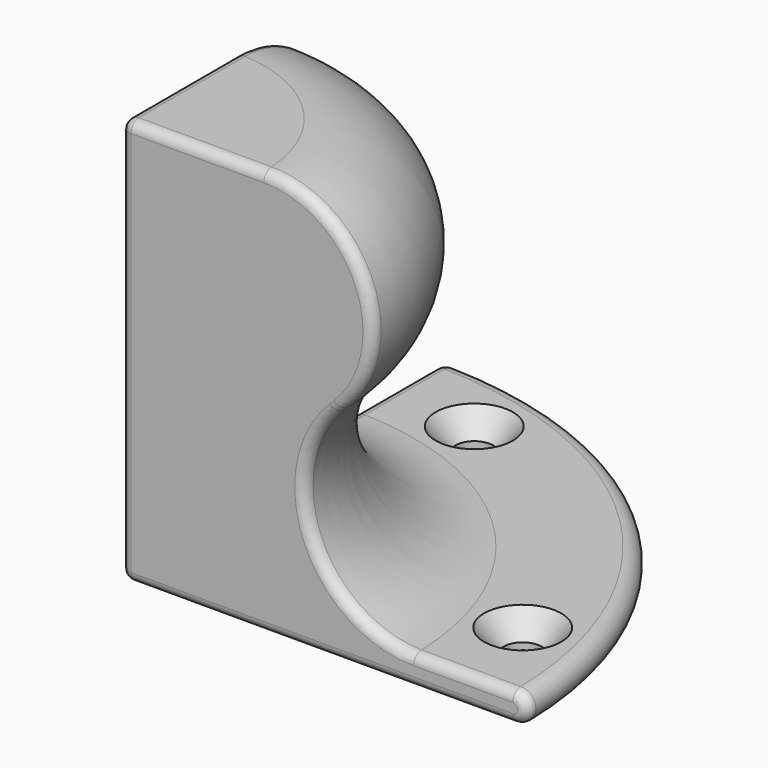
from build123d import *

# Parameters (mm, degrees)
F1_ANGLE       = 90
F3_D           = 3.7973
F3_CSINK_D     = 7.7978
F3_CSINK_ANGLE = 82
F4_R           = 1


with BuildPart() as f1:
    # F0 (on Front) → F1 (revolve)
    with BuildSketch(Plane.XZ):
        with BuildLine():
            ThreePointArc((29.5563491861, 3), (19.3936743285, 9.790482244), (21.7781745931, 21.7781745931))
            Line((21.7781745931, 21.7781745931), (22.2218254069, 22.2218254069))
            ThreePointArc((22.2218254069, 22.2218254069), (24.6063256715, 34.209517756), (14.4436508139, 41))
            Line((14.4436508139, 41), (0, 41))
            Line((0, 41), (0, 0))
            Line((0, 0), (39.5563491861, 0))
            ThreePointArc((39.5563491861, 0), (41.0563491861, 1.5), (39.5563491861, 3))
            Line((39.5563491861, 3), (29.5563491861, 3))
        make_face()
    revolve(axis=Axis((0, 0, 20.5), (0, 0, 1)), revolution_arc=F1_ANGLE)

    # F3 (through all)
    with Locations(Plane.XY.offset(3)):
        with Locations((8.9438412986, 33.3788701411), (33.3788701411, 8.9438412986)):
            CounterSinkHole(F3_D / 2, F3_CSINK_D / 2, counter_sink_angle=F3_CSINK_ANGLE)

    # F4
    f4_edges = [f1.edges().sort_by_distance(p)[0] for p in [
        (19.393674, 0, 9.790482),
        (22, 0, 22),
        (24.606326, 0, 34.209518),
        (7.221825, 0, 41),
        (0, 0, 20.5),
        (19.778175, 0, 0),
        (41.056349, 0, 1.5),
        (34.556349, 0, 3),
        (0, 19.393674, 9.790482),
        (0, 22, 22),
        (0, 24.606326, 34.209518),
        (0, 7.221825, 41),
        (0, 19.778175, 0),
        (0, 41.056349, 1.5),
        (0, 34.556349, 3),
    ]]
    fillet(f4_edges, radius=F4_R)


solid = f1.part
